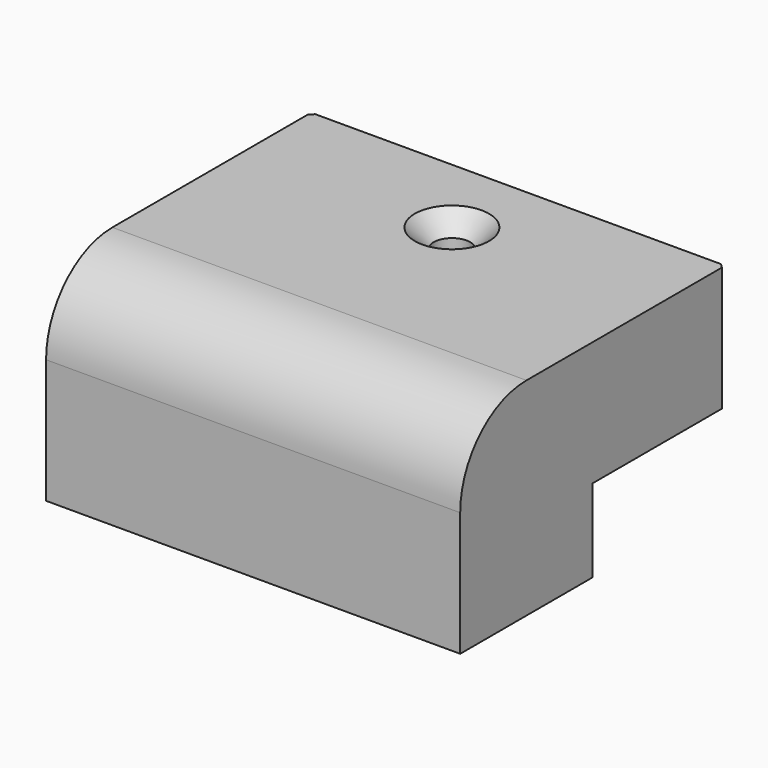
from build123d import *

# Parameters (mm, degrees)
F0_W           = 50
F0_H           = 20
F1_DEPTH       = 25
F2_DEPTH       = 10
F4_DEPTH       = 50.001
F6_D           = 4.4
F6_CSINK_D     = 8.96
F6_CSINK_ANGLE = 90
F7_SIZE        = 0.5


with BuildPart() as f1:
    # F0 (on Top) → F1 (new body)
    with BuildSketch(Plane.XY):
        with Locations((0, 10)):
            Rectangle(F0_W, F0_H)
        with Locations((0, -10)):
            Rectangle(F0_W, F0_H)
    extrude(amount=F1_DEPTH)

    # F0 (on Top) → F2 (cut)
    with BuildSketch(Plane.XY):
        with Locations((0, 10)):
            Rectangle(F0_W, F0_H)
    extrude(amount=F2_DEPTH, mode=Mode.SUBTRACT)

    # F3 (on face) → F4 (cut, through all)
    with BuildSketch(Plane(origin=(-25, 0, 0), x_dir=(0, -1, 0), z_dir=(-1, 0, 0))):
        with BuildLine():
            ThreePointArc((10, 25), (17.0710678119, 22.0710678119), (20, 15))
            Line((20, 15), (20, 25))
            Line((20, 25), (10, 25))
        make_face()
    extrude(amount=-F4_DEPTH, mode=Mode.SUBTRACT)

    # F6 (through all)
    with Locations(Plane.XY.offset(25)):
        with Locations((0, 10)):
            CounterSinkHole(F6_D / 2, F6_CSINK_D / 2, counter_sink_angle=F6_CSINK_ANGLE)

    # F7
    f7_edges = [f1.edges().sort_by_distance(p)[0] for p in [
        (25, 20, 17.5),
        (-25, 20, 17.5),
    ]]
    chamfer(f7_edges, length=F7_SIZE)


solid = f1.part
